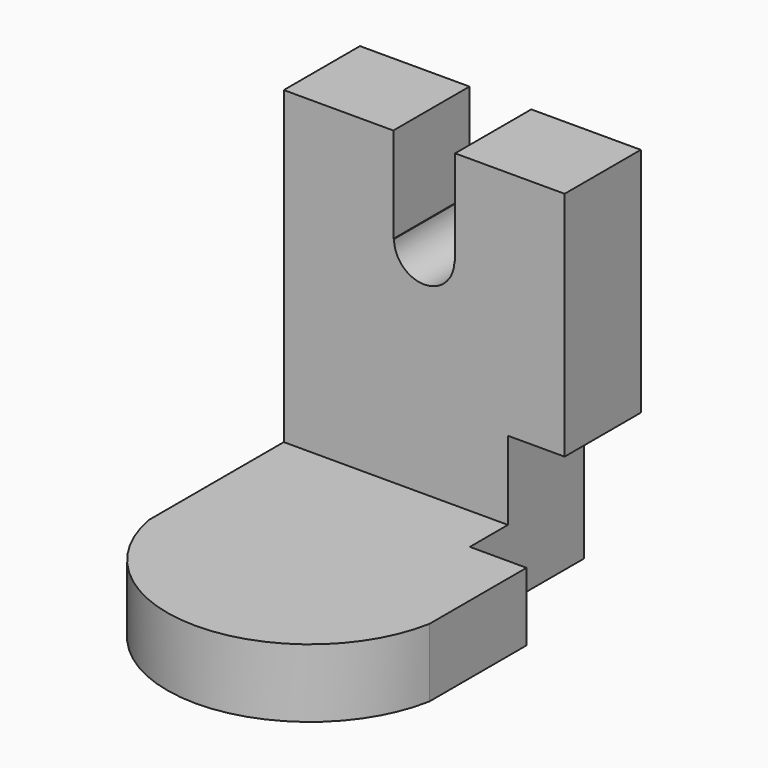
from build123d import *

# Parameters (mm, degrees)
F0_W     = 74.9129392207
F0_H     = 89.2662387341
F0_H_2   = 11.6326007992
F1_DEPTH = 25.4
F3_DEPTH = 38.1
F4_W     = 74.9129392207
F4_H     = 18.2247254997
F5_DEPTH = 76.2
F7_DEPTH = 25.4
F8_W     = 15.1206124574
F8_H     = 39.1616150737
F9_DEPTH = 38.1


with BuildPart() as f1:
    # F0 (on Front) → F1 (new body)
    with BuildSketch(Plane.XZ):
        with Locations((-0.0017788261, 17.1041050926)):
            Rectangle(F0_W, F0_H)
        with Locations((-0.0017788261, -33.3453146741)):
            Rectangle(F0_W, F0_H_2)
    extrude(amount=F1_DEPTH)

    # F2 (on face) → F3 (cut, symmetric)
    with BuildSketch(Plane.XZ.offset(25.4)):
        with BuildLine():
            Line((8.0494598543, 36.3066755235), (8.2423314452, 36.3066755235))
            Line((8.2423314452, 36.3066755235), (8.2423314452, 87.1677733958))
            Line((8.2423314452, 87.1677733958), (-8.2423314452, 87.1677733958))
            Line((-8.2423314452, 87.1677733958), (-8.2423314452, 36.3066755235))
            Line((-8.2423314452, 36.3066755235), (-8.0494598543, 36.3066755235))
            ThreePointArc((-8.0494598543, 36.3066755235), (0, 44.3561353778), (8.0494598543, 36.3066755235))
        make_face()
        with BuildLine():
            ThreePointArc((-8.0494598543, 36.3066755235), (0, 28.2572156693), (8.0494598543, 36.3066755235))
            Line((8.0494598543, 36.3066755235), (-8.0494598543, 36.3066755235))
        make_face()
        with BuildLine():
            Line((-8.0494598543, 36.3066755235), (8.0494598543, 36.3066755235))
            ThreePointArc((8.0494598543, 36.3066755235), (0, 44.3561353778), (-8.0494598543, 36.3066755235))
        make_face()
    extrude(amount=F3_DEPTH, both=True, mode=Mode.SUBTRACT)

    # F4 (on face) → F5 (join)
    with BuildSketch(Plane.XZ.offset(25.4)):
        with Locations((-0.0017788261, -30.0492523238)):
            Rectangle(F4_W, F4_H)
    extrude(amount=F5_DEPTH)

    # F6 (on face) → F7 (cut)
    with BuildSketch(Plane.XY.offset(-20.9368895739)):
        with BuildLine():
            ThreePointArc((2.131e-07, -101.6), (-24.3546974871, -92.7994660414), (-37.4582484365, -70.4634491506))
            Line((-37.4582484365, -70.4634491506), (-37.4582484365, -101.6))
            Line((-37.4582484365, -101.6), (2.131e-07, -101.6))
        make_face()
        with BuildLine():
            ThreePointArc((37.4546907842, -70.4825595779), (24.3472225116, -92.8056778794), (2.131e-07, -101.6))
            Line((2.131e-07, -101.6), (37.4546907842, -101.6))
            Line((37.4546907842, -101.6), (37.4546907842, -70.4825595779))
        make_face()
    extrude(amount=-F7_DEPTH, mode=Mode.SUBTRACT)

    # F8 (on face) → F9 (cut)
    with BuildSketch(Plane(origin=(0, 0, 0), x_dir=(-1, 0, 0), z_dir=(0, 1, 0))):
        with Locations((-29.8943845555, -19.5808075368)):
            Rectangle(F8_W, F8_H)
    extrude(amount=-F9_DEPTH, mode=Mode.SUBTRACT)


solid = f1.part
